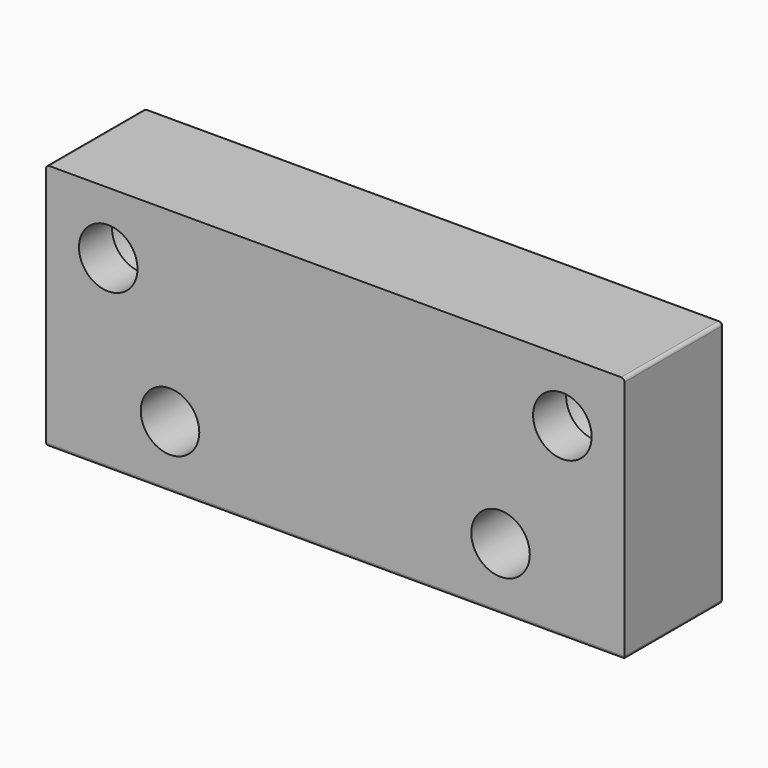
from build123d import *

# Parameters (mm, degrees)
F0_W     = 44.45
F0_H     = 19.05
F0_R     = 2.2479
F0_R_2   = 3.4671
F1_DEPTH = 9.525
F2_DEPTH = 6.35
F3_R     = 0.254


with BuildPart() as f1:
    # F0 (on Front) → F1 (new body)
    with BuildSketch(Plane.XZ):
        Rectangle(F0_W, F0_H)
        with Locations((-12.7, -4.7498)):
            Circle(F0_R, mode=Mode.SUBTRACT)
        with Locations((12.7, -4.7498)):
            Circle(F0_R, mode=Mode.SUBTRACT)
        with Locations((-17.4498, 4.7625)):
            Circle(F0_R_2, mode=Mode.SUBTRACT)
        with Locations((17.4498, 4.7625)):
            Circle(F0_R_2, mode=Mode.SUBTRACT)
        with Locations((17.4498, 4.7625)):
            Circle(F0_R_2)
        with Locations((17.4498, 4.7625)):
            Circle(F0_R, mode=Mode.SUBTRACT)
        with Locations((-17.4498, 4.7625)):
            Circle(F0_R_2)
        with Locations((-17.4498, 4.7625)):
            Circle(F0_R, mode=Mode.SUBTRACT)
    extrude(amount=F1_DEPTH)

    # F0 (on Front) → F2 (cut)
    with BuildSketch(Plane.XZ):
        with Locations((17.4498, 4.7625)):
            Circle(F0_R_2)
        with Locations((17.4498, 4.7625)):
            Circle(F0_R, mode=Mode.SUBTRACT)
        with Locations((-17.4498, 4.7625)):
            Circle(F0_R_2)
        with Locations((-17.4498, 4.7625)):
            Circle(F0_R, mode=Mode.SUBTRACT)
    extrude(amount=F2_DEPTH, mode=Mode.SUBTRACT)

    # F3
    f3_edges = [f1.edges().sort_by_distance(p)[0] for p in [
        (-22.225, -4.7625, 9.525),
        (-22.225, -4.7625, -9.525),
        (22.225, -4.7625, -9.525),
        (22.225, -4.7625, 9.525),
        (0, 0, 9.525),
        (-22.225, 0, 0),
        (0, 0, -9.525),
        (22.225, 0, 0),
        (0, -9.525, -9.525),
    ]]
    fillet(f3_edges, radius=F3_R)


solid = f1.part
